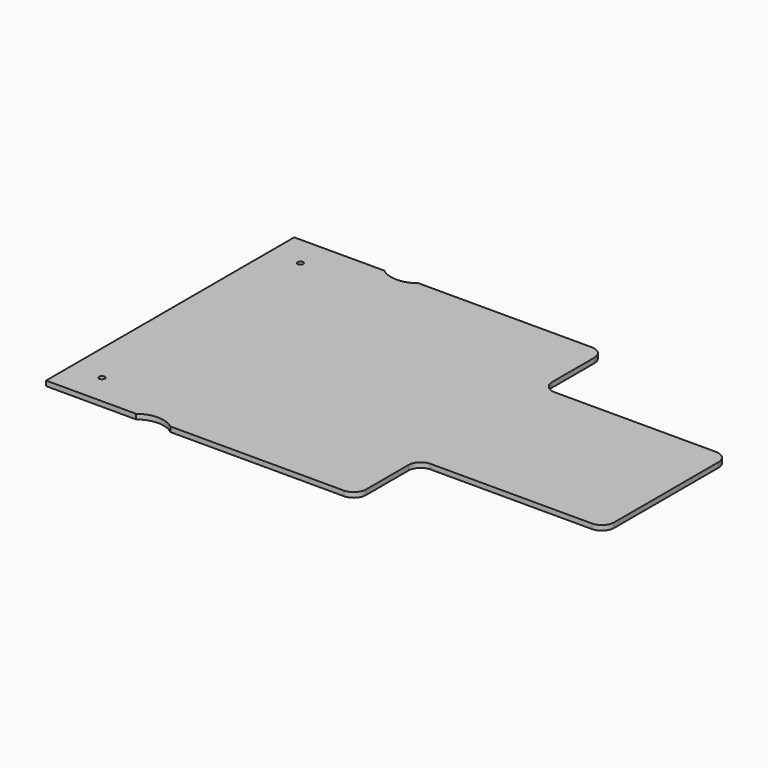
from build123d import *

# Parameters (mm, degrees)
F2_DEPTH = 8
F3_D     = 9


with BuildPart() as f2:
    # F0 (on Top) → F2 (new body)
    with BuildSketch(Plane.XY):
        with BuildLine():
            ThreePointArc((0.0505401735, 230), (-5.8073242027, 244.1421356237), (-19.9494598265, 250))
            Line((-19.9494598265, 250), (-299.5041157847, 250))
            ThreePointArc((-299.5041157847, 250), (-327.2267878056, 240.446487217), (-354.9494598265, 250))
            Line((-354.9494598265, 250), (-499.9494598265, 250))
            Line((-499.9494598265, 250), (-499.9494598265, -250))
            Line((-499.9494598265, -250), (-354.9494598265, -250))
            ThreePointArc((-354.9494598265, -250), (-327.2267878056, -240.446487217), (-299.5041157847, -250))
            Line((-299.5041157847, -250), (-19.9494598265, -250))
            ThreePointArc((-19.9494598265, -250), (-5.8073242027, -244.1421356237), (0.0505401735, -230))
            Line((0.0505401735, -230), (0.0096313334, -145.0096266986))
            ThreePointArc((0.0096313334, -145.0096266986), (5.8640902504, -130.8612683379), (20.0096290166, -125))
            Line((20.0096290166, -125), (280, -125))
            ThreePointArc((280, -125), (294.1421356237, -119.1421356237), (300, -105))
            Line((300, -105), (300, 105))
            ThreePointArc((300, 105), (294.1421356237, 119.1421356237), (280, 125))
            Line((280, 125), (20.0096290166, 125))
            ThreePointArc((20.0096290166, 125), (5.8640902504, 130.8612683379), (0.0096313334, 145.0096266986))
            Line((0.0096313334, 145.0096266986), (0.0505401735, 230))
        make_face()
    extrude(amount=F2_DEPTH)

    # F3 (through all)
    with Locations(Plane(origin=(0, 0, 0), x_dir=(1, 0, 0), z_dir=(0, 0, -1))):
        with Locations((-449.9494598265, 200), (-449.9494598265, -200)):
            Hole(F3_D / 2)


solid = f2.part
